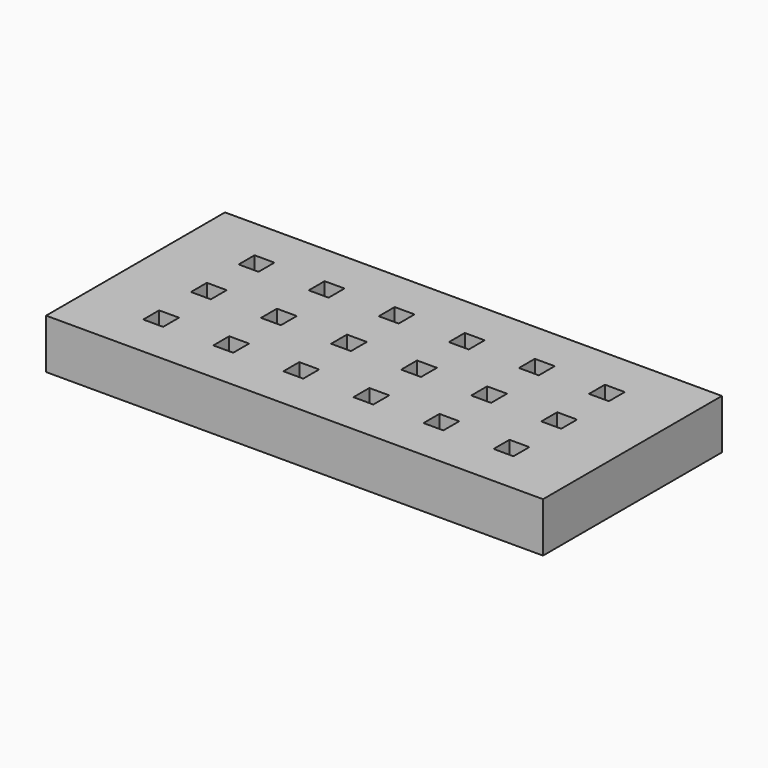
from build123d import *

# Parameters (mm, degrees)
F0_W     = 100
F0_H     = 45
F0_W_2   = 4
F0_H_2   = 4
F1_DEPTH = 10


with BuildPart() as f1:
    # F0 (on Top) → F1 (new body)
    with BuildSketch(Plane.XY):
        with Locations((50, 22.5)):
            Rectangle(F0_W, F0_H)
        with Locations((14.75, 10.5)):
            Rectangle(F0_W_2, F0_H_2, mode=Mode.SUBTRACT)
        with Locations((28.85, 10.5)):
            Rectangle(F0_W_2, F0_H_2, mode=Mode.SUBTRACT)
        with Locations((42.95, 10.5)):
            Rectangle(F0_W_2, F0_H_2, mode=Mode.SUBTRACT)
        with Locations((57.05, 10.5)):
            Rectangle(F0_W_2, F0_H_2, mode=Mode.SUBTRACT)
        with Locations((71.15, 10.5)):
            Rectangle(F0_W_2, F0_H_2, mode=Mode.SUBTRACT)
        with Locations((85.25, 10.5)):
            Rectangle(F0_W_2, F0_H_2, mode=Mode.SUBTRACT)
        with Locations((14.75, 22.5)):
            Rectangle(F0_W_2, F0_H_2, mode=Mode.SUBTRACT)
        with Locations((28.85, 22.5)):
            Rectangle(F0_W_2, F0_H_2, mode=Mode.SUBTRACT)
        with Locations((42.95, 22.5)):
            Rectangle(F0_W_2, F0_H_2, mode=Mode.SUBTRACT)
        with Locations((14.75, 34.5)):
            Rectangle(F0_W_2, F0_H_2, mode=Mode.SUBTRACT)
        with Locations((28.85, 34.5)):
            Rectangle(F0_W_2, F0_H_2, mode=Mode.SUBTRACT)
        with Locations((42.95, 34.5)):
            Rectangle(F0_W_2, F0_H_2, mode=Mode.SUBTRACT)
        with Locations((57.05, 22.5)):
            Rectangle(F0_W_2, F0_H_2, mode=Mode.SUBTRACT)
        with Locations((71.15, 22.5)):
            Rectangle(F0_W_2, F0_H_2, mode=Mode.SUBTRACT)
        with Locations((85.25, 22.5)):
            Rectangle(F0_W_2, F0_H_2, mode=Mode.SUBTRACT)
        with Locations((57.05, 34.5)):
            Rectangle(F0_W_2, F0_H_2, mode=Mode.SUBTRACT)
        with Locations((71.15, 34.5)):
            Rectangle(F0_W_2, F0_H_2, mode=Mode.SUBTRACT)
        with Locations((85.25, 34.5)):
            Rectangle(F0_W_2, F0_H_2, mode=Mode.SUBTRACT)
    extrude(amount=F1_DEPTH)


solid = f1.part
